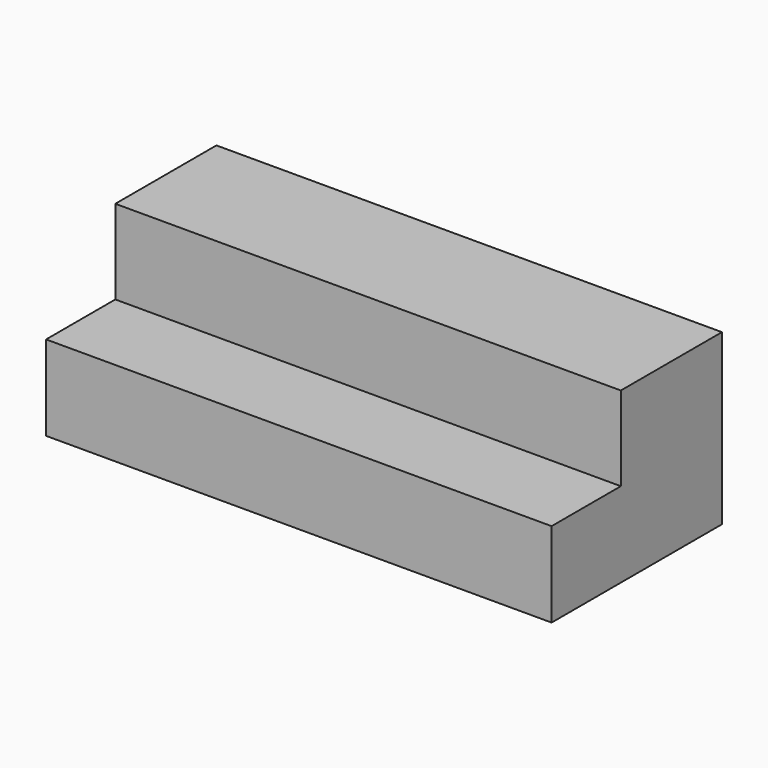
from build123d import *

# Parameters (mm, degrees)
F1_DEPTH = 76.2
F2_DEPTH = 76.2


with BuildPart() as f1:
    # F0 (on Right) → F1 (new body)
    with BuildSketch(Plane.YZ):
        Polygon((-38.252957, 0), (0, 0), (25.933029, 0), (25.933029, 50.999308), (-12.166971, 50.999308), (-12.166971, 25.599308), (-38.252957, 25.599308), align=None)
    extrude(amount=F1_DEPTH)

    # F1_face (on face) → F2 (join)
    with BuildSketch(Plane(origin=(0, -1.325449, 22.251354), x_dir=(0, 1, 0), z_dir=(-1, 0, 0))):
        Polygon((-36.927508, 22.251354), (-36.927508, -3.347954), (-10.841522, -3.347954), (-10.841522, -28.747954), (27.258478, -28.747954), (27.258478, 22.251354), align=None)
    extrude(amount=F2_DEPTH)


solid = f1.part
